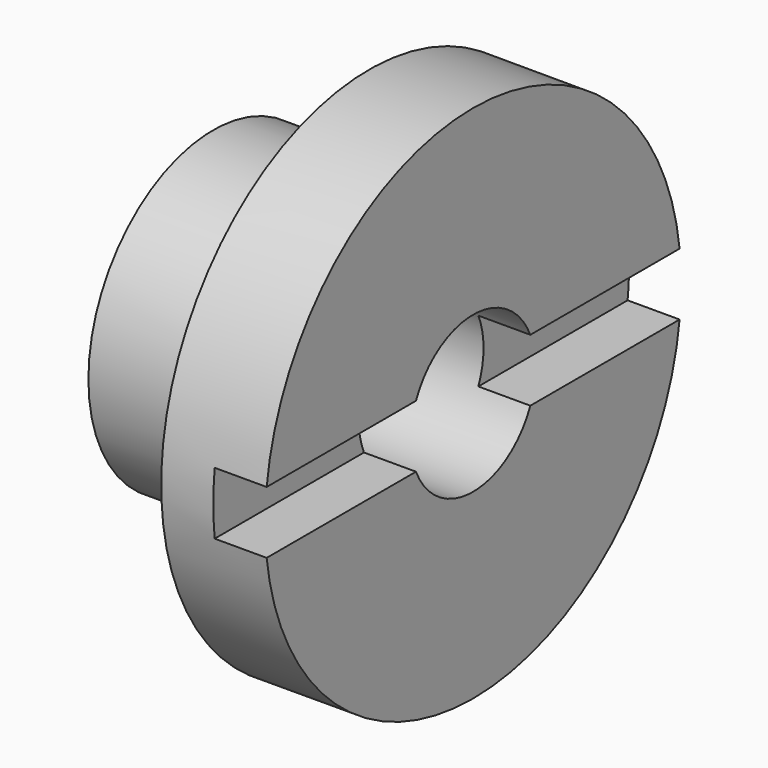
from build123d import *

# Parameters (mm, degrees)
F2_W     = 110
F2_H     = 12
F3_DEPTH = 10
F4_W     = 6
F4_H     = 6
F5_DEPTH = 20
F6_R     = 5


with BuildPart() as f1:
    # F0 (on Top) → F1 (revolve)
    with BuildSketch(Plane.XY):
        Polygon((0, 30), (0, 15), (50, 15), (50, 50), (30, 50), (30, 30), align=None)
    revolve(axis=Axis((25, 0, 0), (-1, 0, 0)))

    # F2 (on face) → F3 (cut)
    with BuildSketch(Plane.YZ.offset(50)):
        Rectangle(F2_W, F2_H)
    extrude(amount=-F3_DEPTH, mode=Mode.SUBTRACT)

    # F4 (on face) → F5 (cut)
    with BuildSketch(Plane(origin=(0, 0, 0), x_dir=(0, -1, 0), z_dir=(-1, 0, 0))):
        with Locations((15, 0)):
            Rectangle(F4_W, F4_H)
    extrude(amount=-F5_DEPTH, mode=Mode.SUBTRACT)

    # F6
    f6_edges = [f1.edges().sort_by_distance(p)[0] for p in [
        (30, -30, 0),
    ]]
    fillet(f6_edges, radius=F6_R)


solid = f1.part
